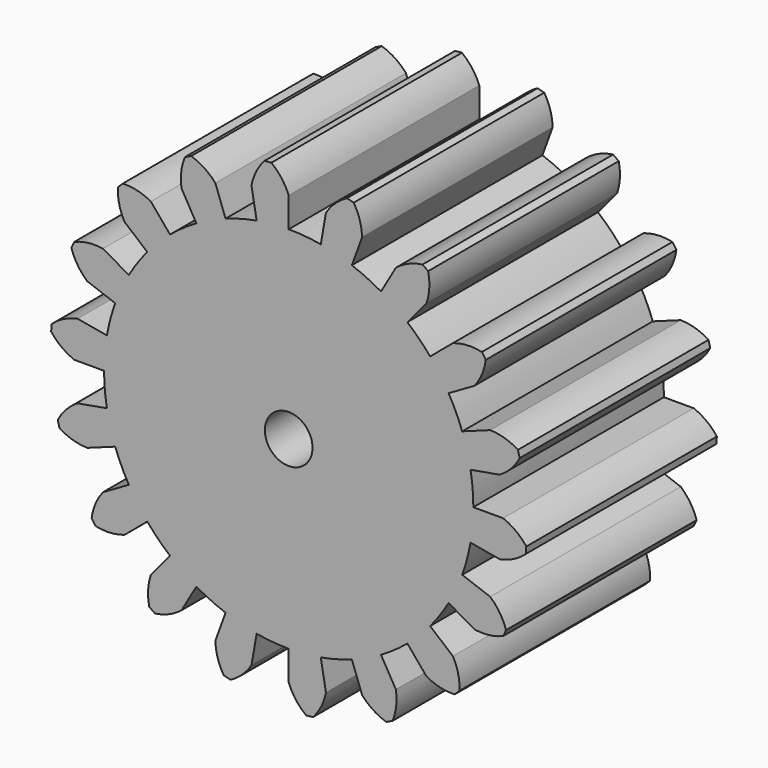
from build123d import *

# Parameters (mm, degrees)
F0_R     = 1
F1_DEPTH = 10


with BuildPart() as f1:
    # F0 (on Front) → F1 (new body)
    with BuildSketch(Plane.XZ):
        with BuildLine():
            Line((-1.562834, 8.86327), (-1.345773, 7.63226))
            ThreePointArc((-1.345773, 7.63226), (-2.005848, 7.485925), (-2.650656, 7.282618))
            Line((-2.650656, 7.282618), (-3.078181, 8.457234))
            ThreePointArc((-3.078181, 8.457234), (-3.540527, 8.860187), (-4.094507, 9.123322))
            Line((-4.094507, 9.123322), (-4.356972, 9.000933))
            ThreePointArc((-4.356972, 9.000933), (-4.51149, 8.407419), (-4.5, 7.794229))
            Line((-4.5, 7.794229), (-3.875, 6.711697))
            ThreePointArc((-3.875, 6.711697), (-4.445217, 6.348428), (-4.981604, 5.936844))
            Line((-4.981604, 5.936844), (-5.785088, 6.8944))
            ThreePointArc((-5.785088, 6.8944), (-6.357369, 7.114921), (-6.967938, 7.172715))
            Line((-6.967938, 7.172715), (-7.172715, 6.967938))
            ThreePointArc((-7.172715, 6.967938), (-7.114921, 6.357369), (-6.8944, 5.785088))
            Line((-6.8944, 5.785088), (-5.936844, 4.981604))
            ThreePointArc((-5.936844, 4.981604), (-6.348428, 4.445217), (-6.711697, 3.875))
            Line((-6.711697, 3.875), (-7.794229, 4.5))
            ThreePointArc((-7.794229, 4.5), (-8.407419, 4.51149), (-9.000933, 4.356972))
            Line((-9.000933, 4.356972), (-9.123322, 4.094507))
            ThreePointArc((-9.123322, 4.094507), (-8.860187, 3.540527), (-8.457234, 3.078181))
            Line((-8.457234, 3.078181), (-7.282618, 2.650656))
            ThreePointArc((-7.282618, 2.650656), (-7.485925, 2.005848), (-7.63226, 1.345773))
            Line((-7.63226, 1.345773), (-8.86327, 1.562834))
            ThreePointArc((-8.86327, 1.562834), (-9.44341, 1.363908), (-9.948283, 1.015714))
            Line((-9.948283, 1.015714), (-9.973523, 0.727218))
            ThreePointArc((-9.973523, 0.727218), (-9.536784, 0.296644), (-9, 0))
            Line((-9, 0), (-7.75, 0))
            ThreePointArc((-7.75, 0), (-7.720509, -0.675457), (-7.63226, -1.345773))
            Line((-7.63226, -1.345773), (-8.86327, -1.562834))
            ThreePointArc((-8.86327, -1.562834), (-9.340387, -1.948183), (-9.695722, -2.448054))
            Line((-9.695722, -2.448054), (-9.620769, -2.727784))
            ThreePointArc((-9.620769, -2.727784), (-9.063104, -2.983018), (-8.457234, -3.078181))
            Line((-8.457234, -3.078181), (-7.282618, -2.650656))
            ThreePointArc((-7.282618, -2.650656), (-7.023885, -3.275292), (-6.711697, -3.875))
            Line((-6.711697, -3.875), (-7.794229, -4.5))
            ThreePointArc((-7.794229, -4.5), (-8.110775, -5.025293), (-8.273715, -5.616551))
            Line((-8.273715, -5.616551), (-8.107608, -5.853776))
            ThreePointArc((-8.107608, -5.853776), (-7.496279, -5.902884), (-6.8944, -5.785088))
            Line((-6.8944, -5.785088), (-5.936844, -4.981604))
            ThreePointArc((-5.936844, -4.981604), (-5.480078, -5.480078), (-4.981604, -5.936844))
            Line((-4.981604, -5.936844), (-5.785088, -6.8944))
            ThreePointArc((-5.785088, -6.8944), (-5.902884, -7.496279), (-5.853776, -8.107608))
            Line((-5.853776, -8.107608), (-5.616551, -8.273715))
            ThreePointArc((-5.616551, -8.273715), (-5.025293, -8.110775), (-4.5, -7.794229))
            Line((-4.5, -7.794229), (-3.875, -6.711697))
            ThreePointArc((-3.875, -6.711697), (-3.275292, -7.023885), (-2.650656, -7.282618))
            Line((-2.650656, -7.282618), (-3.078181, -8.457234))
            ThreePointArc((-3.078181, -8.457234), (-2.983018, -9.063104), (-2.727784, -9.620769))
            Line((-2.727784, -9.620769), (-2.448054, -9.695722))
            ThreePointArc((-2.448054, -9.695722), (-1.948183, -9.340387), (-1.562834, -8.86327))
            Line((-1.562834, -8.86327), (-1.345773, -7.63226))
            ThreePointArc((-1.345773, -7.63226), (-0.675457, -7.720509), (0, -7.75))
            Line((0, -7.75), (0, -9))
            ThreePointArc((0, -9), (0.296644, -9.536784), (0.727218, -9.973523))
            Line((0.727218, -9.973523), (1.015714, -9.948283))
            ThreePointArc((1.015714, -9.948283), (1.363908, -9.44341), (1.562834, -8.86327))
            Line((1.562834, -8.86327), (1.345773, -7.63226))
            ThreePointArc((1.345773, -7.63226), (2.005848, -7.485925), (2.650656, -7.282618))
            Line((2.650656, -7.282618), (3.078181, -8.457234))
            ThreePointArc((3.078181, -8.457234), (3.540527, -8.860187), (4.094507, -9.123322))
            Line((4.094507, -9.123322), (4.356972, -9.000933))
            ThreePointArc((4.356972, -9.000933), (4.51149, -8.407419), (4.5, -7.794229))
            Line((4.5, -7.794229), (3.875, -6.711697))
            ThreePointArc((3.875, -6.711697), (4.445217, -6.348428), (4.981604, -5.936844))
            Line((4.981604, -5.936844), (5.785088, -6.8944))
            ThreePointArc((5.785088, -6.8944), (6.357369, -7.114921), (6.967938, -7.172715))
            Line((6.967938, -7.172715), (7.172715, -6.967938))
            ThreePointArc((7.172715, -6.967938), (7.114921, -6.357369), (6.8944, -5.785088))
            Line((6.8944, -5.785088), (5.936844, -4.981604))
            ThreePointArc((5.936844, -4.981604), (6.348428, -4.445217), (6.711697, -3.875))
            Line((6.711697, -3.875), (7.794229, -4.5))
            ThreePointArc((7.794229, -4.5), (8.407419, -4.51149), (9.000933, -4.356972))
            Line((9.000933, -4.356972), (9.123322, -4.094507))
            ThreePointArc((9.123322, -4.094507), (8.860187, -3.540527), (8.457234, -3.078181))
            Line((8.457234, -3.078181), (7.282618, -2.650656))
            ThreePointArc((7.282618, -2.650656), (7.485925, -2.005848), (7.63226, -1.345773))
            Line((7.63226, -1.345773), (8.86327, -1.562834))
            ThreePointArc((8.86327, -1.562834), (9.44341, -1.363908), (9.948283, -1.015714))
            Line((9.948283, -1.015714), (9.973523, -0.727218))
            ThreePointArc((9.973523, -0.727218), (9.536784, -0.296644), (9, 0))
            Line((9, 0), (7.75, 0))
            ThreePointArc((7.75, 0), (7.720509, 0.675457), (7.63226, 1.345773))
            Line((7.63226, 1.345773), (8.86327, 1.562834))
            ThreePointArc((8.86327, 1.562834), (9.340387, 1.948183), (9.695722, 2.448054))
            Line((9.695722, 2.448054), (9.620769, 2.727784))
            ThreePointArc((9.620769, 2.727784), (9.063104, 2.983018), (8.457234, 3.078181))
            Line((8.457234, 3.078181), (7.282618, 2.650656))
            ThreePointArc((7.282618, 2.650656), (7.023885, 3.275292), (6.711697, 3.875))
            Line((6.711697, 3.875), (7.794229, 4.5))
            ThreePointArc((7.794229, 4.5), (8.110775, 5.025293), (8.273715, 5.616551))
            Line((8.273715, 5.616551), (8.107608, 5.853776))
            ThreePointArc((8.107608, 5.853776), (7.496279, 5.902884), (6.8944, 5.785088))
            Line((6.8944, 5.785088), (5.936844, 4.981604))
            ThreePointArc((5.936844, 4.981604), (5.480078, 5.480078), (4.981604, 5.936844))
            Line((4.981604, 5.936844), (5.785088, 6.8944))
            ThreePointArc((5.785088, 6.8944), (5.902884, 7.496279), (5.853776, 8.107608))
            Line((5.853776, 8.107608), (5.616551, 8.273715))
            ThreePointArc((5.616551, 8.273715), (5.025293, 8.110775), (4.5, 7.794229))
            Line((4.5, 7.794229), (3.875, 6.711697))
            ThreePointArc((3.875, 6.711697), (3.275292, 7.023885), (2.650656, 7.282618))
            Line((2.650656, 7.282618), (3.078181, 8.457234))
            ThreePointArc((3.078181, 8.457234), (2.983018, 9.063104), (2.727784, 9.620769))
            Line((2.727784, 9.620769), (2.448054, 9.695722))
            ThreePointArc((2.448054, 9.695722), (1.948183, 9.340387), (1.562834, 8.86327))
            Line((1.562834, 8.86327), (1.345773, 7.63226))
            ThreePointArc((1.345773, 7.63226), (0.675457, 7.720509), (0, 7.75))
            Line((0, 7.75), (0, 9))
            ThreePointArc((0, 9), (-0.296644, 9.536784), (-0.727218, 9.973523))
            Line((-0.727218, 9.973523), (-1.015714, 9.948283))
            ThreePointArc((-1.015714, 9.948283), (-1.363908, 9.44341), (-1.562834, 8.86327))
        make_face()
        Circle(F0_R, mode=Mode.SUBTRACT)
    extrude(amount=F1_DEPTH)


solid = f1.part
